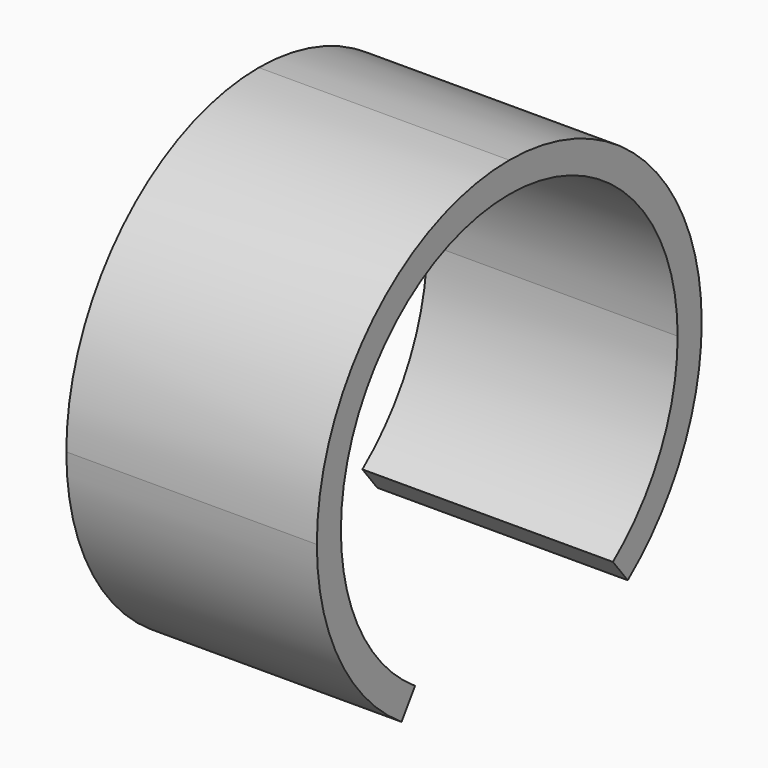
from build123d import *

# Parameters (mm, degrees)
F1_DEPTH = 25


with BuildPart() as f1:
    # F0 (on Right) → F1 (new body)
    with BuildSketch(Plane.YZ):
        with BuildLine():
            Line((0, 21), (0, 24))
            ThreePointArc((0, 24), (-16.970563, 16.970563), (-24, 0))
            Line((-24, 0), (-21, 0))
            ThreePointArc((-21, 0), (-14.849242, 14.849242), (0, 21))
        make_face()
        with BuildLine():
            Line((-21, 0), (-24, 0))
            ThreePointArc((-24, 0), (-21.194852, -11.259585), (-13.435146, -19.887103))
            Line((-13.435146, -19.887103), (-11.755753, -17.401215))
            ThreePointArc((-11.755753, -17.401215), (-18.545496, -9.852137), (-21, 0))
        make_face()
        with BuildLine():
            Line((21, 0), (24, 0))
            ThreePointArc((24, 0), (16.970563, 16.970563), (0, 24))
            Line((0, 24), (0, 21))
            ThreePointArc((0, 21), (14.849242, 14.849242), (21, 0))
        make_face()
        with BuildLine():
            Line((12.928941, -16.548187), (14.775932, -18.912213))
            ThreePointArc((14.775932, -18.912213), (21.571073, -10.520875), (24, 0))
            Line((24, 0), (21, 0))
            ThreePointArc((21, 0), (18.874689, -9.205766), (12.928941, -16.548187))
        make_face()
    extrude(amount=F1_DEPTH)


solid = f1.part
